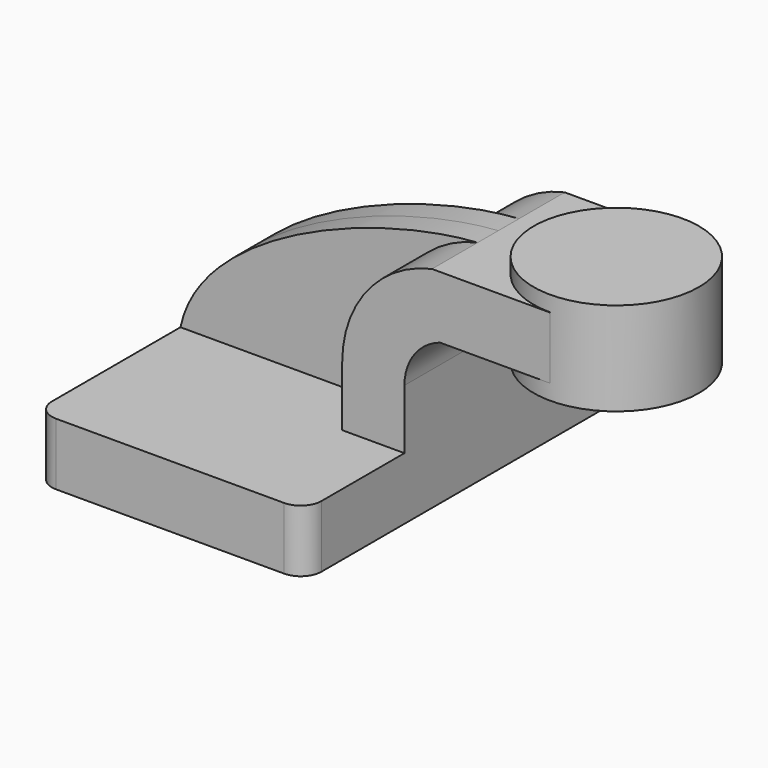
from build123d import *

# Parameters (mm, degrees)
F1_DEPTH = 63.5
F0_W     = 25.5048689127
F0_H     = 19.05
F2_DEPTH = 25.4
F3_DEPTH = 7.9375
F5_R     = 6.35


with BuildPart() as f1:
    # F0 (on Front) → F1 (new body, symmetric)
    with BuildSketch(Plane.XZ):
        Polygon((22.225, 9.525), (-41.275, 9.525), (-41.275, -9.525), (41.275, -9.525), (41.275, 9.525), align=None)
    extrude(amount=F1_DEPTH, both=True)

    # F0 (on Front) → F2 (join, symmetric)
    with BuildSketch(Plane.XZ):
        with BuildLine():
            Line((22.225, 27.7996848035), (22.225, 9.525))
            Line((22.225, 9.525), (41.275, 9.525))
            Line((41.275, 9.525), (41.275, 27.7996848035))
            ThreePointArc((41.275, 27.7996848035), (44.2856320844, 37.1014944732), (52.1756189772, 42.8752))
            Line((52.1756189772, 42.8752), (60.325, 42.8752))
            Line((60.325, 42.8752), (60.325, 61.9252))
            Line((60.325, 61.9252), (49.7200042009, 61.9252))
            ThreePointArc((49.7200042009, 61.9252), (49.7186139898, 61.9248972859), (49.717223791, 61.9245945151))
            ThreePointArc((49.717223791, 61.9245945151), (29.9530761473, 49.7104802695), (22.225, 27.7996848035))
        make_face()
        with Locations((73.0774344563, 52.4002)):
            Rectangle(F0_W, F0_H)
    extrude(amount=F2_DEPTH, both=True)

    # F0 (on Front) → F3 (join, symmetric)
    with BuildSketch(Plane.XZ):
        with BuildLine():
            add(Edge.make_bspline(
                [(-41.275, 9.525), (-35.0649054053, 39.5606108994), (18.1036447727, 59.8387115969), (49.717223791, 61.9245945151)],
                knots=[0, 0, 0, 0, 105.000862147, 105.000862147, 105.000862147, 105.000862147], degree=3))
            Line((-41.275, 9.525), (22.225, 9.525))
            Line((22.225, 9.525), (22.225, 27.7996848035))
            ThreePointArc((22.225, 27.7996848035), (29.9530761473, 49.7104802695), (49.717223791, 61.9245945151))
        make_face()
    extrude(amount=F3_DEPTH, both=True)

    # F0 (on Front) → F4 (revolve)
    with BuildSketch(Plane.XZ):
        Polygon((85.8298689127, 66.675), (85.8298689127, 61.9252), (85.8298689127, 42.8752), (85.8298689127, 38.1), (111.125, 38.1), (111.125, 66.675), align=None)
    revolve(axis=Axis((85.8298689127, 0, 52.3875), (0, 0, 1)))

    # F5
    f5_edges = [f1.edges().sort_by_distance(p)[0] for p in [
        (41.275, 63.5, 0),
        (-41.275, 63.5, 0),
        (-41.275, -63.5, 0),
        (41.275, -63.5, 0),
    ]]
    fillet(f5_edges, radius=F5_R)


solid = f1.part
